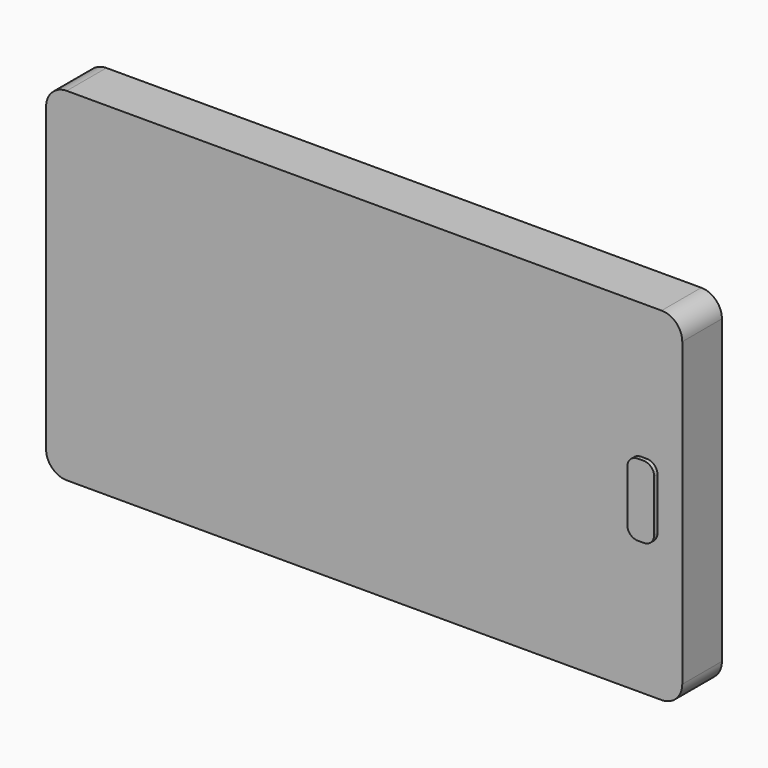
from build123d import *

# Parameters (mm, degrees)
F0_W     = 154
F0_H     = 83
F1_DEPTH = 12
F2_R     = 5
F3_W     = 6.5
F3_H     = 17.5
F4_DEPTH = 1
F5_R     = 2.5
F6_W     = 28
F6_H     = 19
F7_DEPTH = 2


with BuildPart() as f1:
    # F0 (on Front) → F1 (new body)
    with BuildSketch(Plane.XZ):
        Rectangle(F0_W, F0_H)
    extrude(amount=F1_DEPTH)

    # F2
    f2_edges = [f1.edges().sort_by_distance(p)[0] for p in [
        (-77, -6, 41.5),
        (77, -6, 41.5),
        (77, -6, -41.5),
        (-77, -6, -41.5),
    ]]
    fillet(f2_edges, radius=F2_R)

    # F3 (on face) → F4 (join)
    with BuildSketch(Plane.XZ.offset(12)):
        with Locations((67.75, 0)):
            Rectangle(F3_W, F3_H)
    extrude(amount=F4_DEPTH)

    # F5
    f5_edges = [f1.edges().sort_by_distance(p)[0] for p in [
        (71, -12.5, -8.75),
        (71, -12.5, 8.75),
        (64.5, -12.5, 8.75),
        (64.5, -12.5, -8.75),
    ]]
    fillet(f5_edges, radius=F5_R)

    # F6 (on Front) → F7 (cut)
    with BuildSketch(Plane.XZ):
        with Locations((-53, 0)):
            Rectangle(F6_W, F6_H)
    extrude(amount=F7_DEPTH, mode=Mode.SUBTRACT)


solid = f1.part
